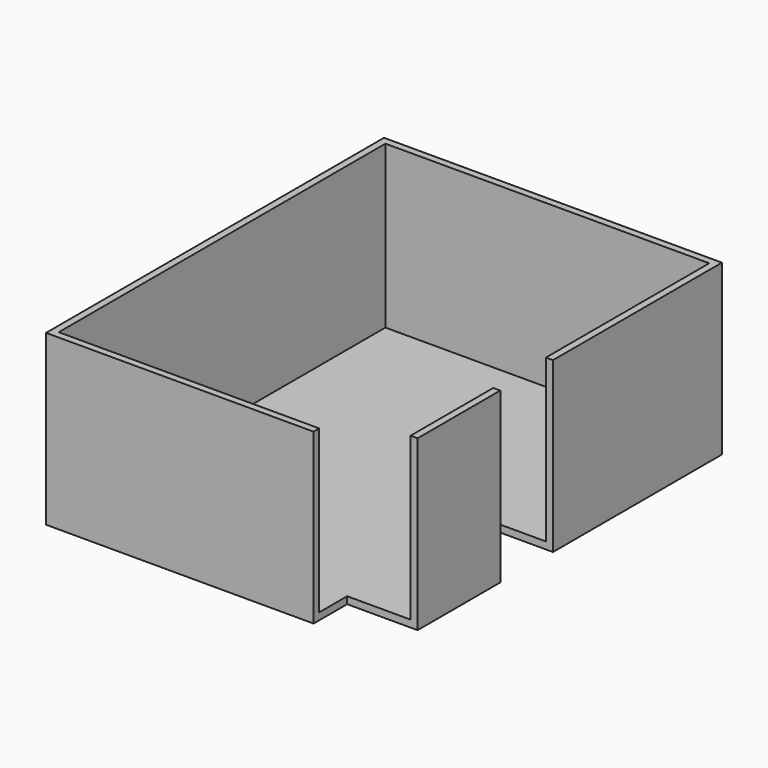
from build123d import *

# Parameters (mm, degrees)
F0_W     = 120
F0_H     = 150
F1_DEPTH = 60
F2_T     = -2.5
F3_W     = 7.0065811276
F3_H     = 60
F3_W_2   = 14.9013146758
F4_DEPTH = 25
F5_W     = 23.38815853
F5_H     = 60
F6_DEPTH = 25


with BuildPart() as f1:
    # F0 (on Top) → F1 (new body)
    with BuildSketch(Plane.XY):
        Rectangle(F0_W, F0_H)
    extrude(amount=F1_DEPTH)

    # F2
    f2_openings = [f1.faces().sort_by_distance(p)[0] for p in [
        (0, 0, 60),
    ]]
    offset(amount=F2_T, openings=f2_openings)

    # F3 (on face) → F4 (cut)
    with BuildSketch(Plane.YZ.offset(60)):
        with Locations((-78.5032905638, 30)):
            Rectangle(F3_W, F3_H)
        with Locations((-67.5493426621, 30)):
            Rectangle(F3_W_2, F3_H)
    extrude(amount=-F4_DEPTH, mode=Mode.SUBTRACT)

    # F5 (on face) → F6 (cut)
    with BuildSketch(Plane.YZ.offset(60)):
        with Locations((-11.694079265, 30)):
            Rectangle(F5_W, F5_H)
    extrude(amount=-F6_DEPTH, mode=Mode.SUBTRACT)


solid = f1.part
